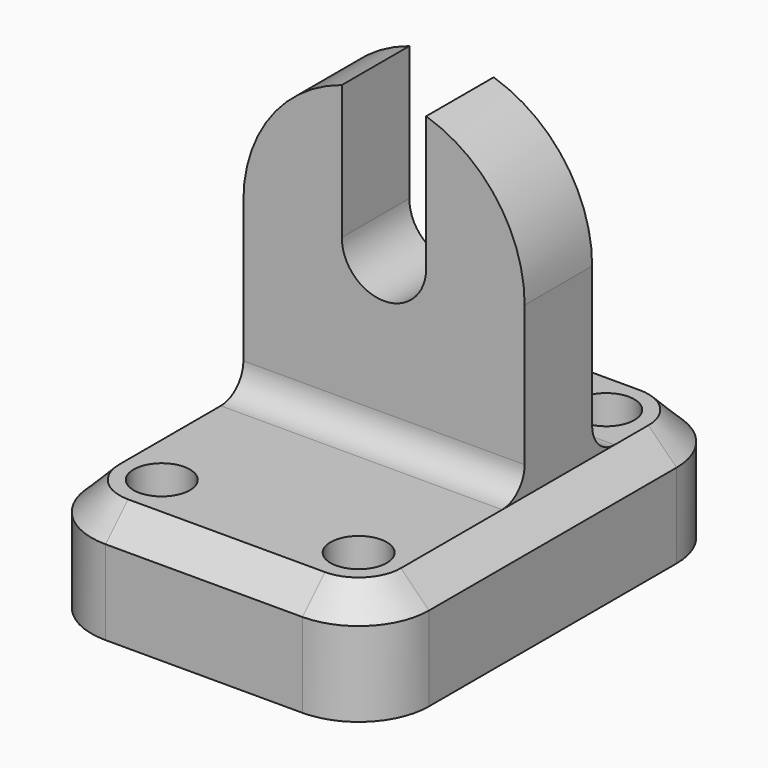
from build123d import *

# Parameters (mm, degrees)
F0_W      = 76.2
F0_H      = 101.6
F1_DEPTH  = 25.4
F3_R      = 15.875
F4_SIZE   = 6.35
F5_D      = 12.7
F2_W      = 76.2
F2_H      = 19.05
F6_DEPTH  = 69.85
F7_W      = 6.35
F7_H      = 69.85
F8_DEPTH  = 19.05
F10_R     = 6.35
F11_DEPTH = 19.05
F12_DEPTH = 19.05


with BuildPart() as f1:
    # F0 (on Top) → F1 (new body)
    with BuildSketch(Plane.XY):
        Rectangle(F0_W, F0_H)
    extrude(amount=F1_DEPTH)

    # F3
    f3_edges = [f1.edges().sort_by_distance(p)[0] for p in [
        (38.1, 50.8, 12.7),
        (-38.1, 50.8, 12.7),
        (-38.1, -50.8, 12.7),
        (38.1, -50.8, 12.7),
    ]]
    fillet(f3_edges, radius=F3_R)

    # F4
    f4_edges = [f1.edges().sort_by_distance(p)[0] for p in [
        (38.1, 0, 25.4),
        (33.45032, -46.15032, 25.4),
        (33.45032, 46.15032, 25.4),
        (0, -50.8, 25.4),
        (0, 50.8, 25.4),
        (-33.45032, -46.15032, 25.4),
        (-33.45032, 46.15032, 25.4),
        (-38.1, 0, 25.4),
    ]]
    chamfer(f4_edges, length=F4_SIZE)

    # F5 (through all)
    with Locations(Plane.XY.offset(25.4)):
        with Locations((-22.225, 34.925), (22.225, 34.925), (22.225, -34.925), (-22.225, -34.925)):
            Hole(F5_D / 2)

    # F2 (on face) → F6 (join)
    with BuildSketch(Plane.XY.offset(25.4)):
        with Locations((0, 9.525)):
            Rectangle(F2_W, F2_H)
    extrude(amount=F6_DEPTH)

    # F7 (on face) → F8 (cut)
    with BuildSketch(Plane.XZ):
        with Locations((-34.925, 60.325)):
            Rectangle(F7_W, F7_H)
        with Locations((34.925, 60.325)):
            Rectangle(F7_W, F7_H)
    extrude(amount=-F8_DEPTH, mode=Mode.SUBTRACT)

    # F10
    f10_edges = [f1.edges().sort_by_distance(p)[0] for p in [
        (0, 0, 25.4),
        (0, 19.05, 25.4),
    ]]
    fillet(f10_edges, radius=F10_R)

    # F9 (on face) → F11 (cut)
    with BuildSketch(Plane.XZ):
        with BuildLine():
            Line((-9.525, 95.25), (-9.525, 93.787569645))
            ThreePointArc((-9.525, 93.787569645), (-4.8183070518, 94.8822627794), (-2.014e-07, 95.25))
            Line((-2.014e-07, 95.25), (-9.525, 95.25))
        make_face()
        with BuildLine():
            ThreePointArc((-2.014e-07, 95.25), (4.8183068527, 94.88226281), (9.525, 93.787569645))
            Line((9.525, 93.787569645), (9.525, 95.25))
            Line((9.525, 95.25), (-2.014e-07, 95.25))
        make_face()
        with BuildLine():
            Line((-31.75, 95.25), (-31.75, 63.5))
            ThreePointArc((-31.75, 63.5), (-25.5976683508, 82.2835533113), (-9.525, 93.787569645))
            Line((-9.525, 93.787569645), (-9.525, 95.25))
            Line((-9.525, 95.25), (-31.75, 95.25))
        make_face()
        with BuildLine():
            ThreePointArc((9.525, 93.787569645), (25.5976683508, 82.2835533113), (31.75, 63.5))
            Line((31.75, 63.5), (31.75, 95.25))
            Line((31.75, 95.25), (9.525, 95.25))
            Line((9.525, 95.25), (9.525, 93.787569645))
        make_face()
        with BuildLine():
            Line((-9.525, 93.787569645), (-9.525, 63.5))
            ThreePointArc((-9.525, 63.5), (0, 73.025), (9.525, 63.5))
            Line((9.525, 63.5), (9.525, 93.787569645))
            ThreePointArc((9.525, 93.787569645), (4.8183068527, 94.88226281), (-2.014e-07, 95.25))
            ThreePointArc((-2.014e-07, 95.25), (-4.8183070518, 94.8822627794), (-9.525, 93.787569645))
        make_face()
        with BuildLine():
            ThreePointArc((-9.525, 63.5), (-6.7351920908, 56.7648079092), (0, 53.975))
            ThreePointArc((0, 53.975), (6.7351920908, 56.7648079092), (9.525, 63.5))
            ThreePointArc((9.525, 63.5), (0, 73.025), (-9.525, 63.5))
        make_face()
    extrude(amount=-F11_DEPTH, mode=Mode.SUBTRACT)

    # F9 (on face) → F12 (cut)
    with BuildSketch(Plane.XZ):
        with BuildLine():
            Line((-9.525, 93.787569645), (-9.525, 63.5))
            ThreePointArc((-9.525, 63.5), (0, 73.025), (9.525, 63.5))
            Line((9.525, 63.5), (9.525, 93.787569645))
            ThreePointArc((9.525, 93.787569645), (4.8183068527, 94.88226281), (-2.014e-07, 95.25))
            ThreePointArc((-2.014e-07, 95.25), (-4.8183070518, 94.8822627794), (-9.525, 93.787569645))
        make_face()
        with BuildLine():
            ThreePointArc((-9.525, 63.5), (-6.7351920908, 56.7648079092), (0, 53.975))
            ThreePointArc((0, 53.975), (6.7351920908, 56.7648079092), (9.525, 63.5))
            ThreePointArc((9.525, 63.5), (0, 73.025), (-9.525, 63.5))
        make_face()
    extrude(amount=-F12_DEPTH, mode=Mode.SUBTRACT)


solid = f1.part
